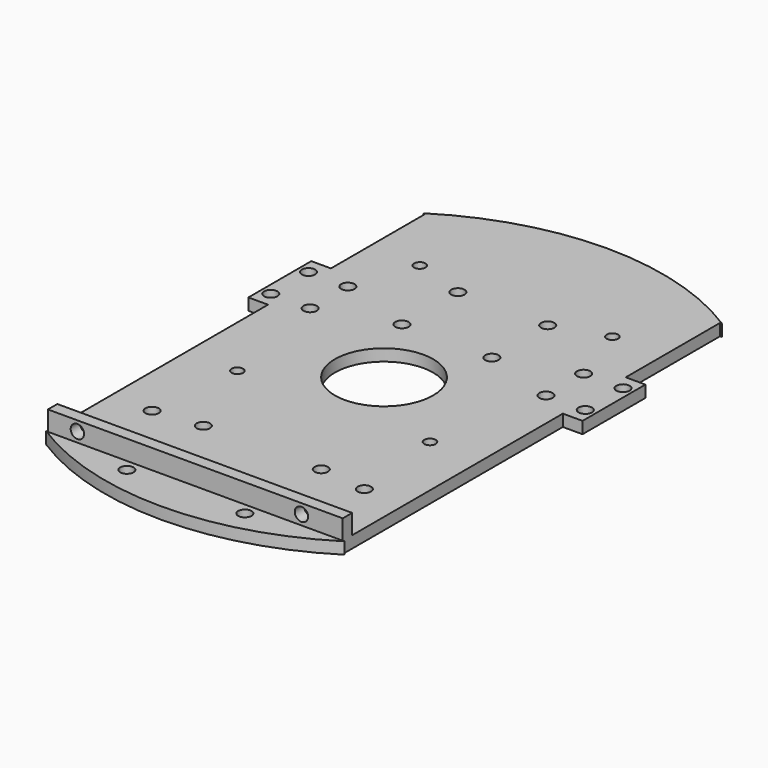
from build123d import *

# Parameters (mm, degrees)
SKETCH_R        = 71
PAD_DEPTH       = 3
SKETCH001_W     = 52.5
SKETCH001_H     = 120
POCKET_DEPTH    = 3.001
SKETCH002_W     = 55.43
SKETCH002_H     = 120
POCKET001_DEPTH = 3.001
SKETCH003_R     = 12.5
POCKET002_DEPTH = 3.001
SKETCH004_R     = 1.7
HOLE_DEPTH      = 3.001
SKETCH005_W     = 15
SKETCH005_H     = 20
PAD001_DEPTH    = 3
SKETCH006_W     = 15
SKETCH006_H     = 20
PAD002_DEPTH    = 3
SKETCH007_W     = 75
SKETCH007_H     = 3
PAD003_DEPTH    = 8
SKETCH008_R     = 1.7
HOLE001_DEPTH   = 8.001
SKETCH010_R     = 1.45
HOLE002_DEPTH   = 8.001
SKETCH011_R     = 1.7
HOLE003_DEPTH   = 8.001
SKETCH013_R     = 1.7
HOLE004_DEPTH   = 8.001
SKETCH014_R     = 1.7
HOLE005_DEPTH   = 71.001


with BuildPart() as part:
    # Sketch → Pad (new body)
    with BuildSketch(Plane.XY):
        Circle(SKETCH_R)
    extrude(amount=PAD_DEPTH)

    # Sketch001 → Pocket (cut, through all)
    with BuildSketch(Plane.XY):
        with Locations((63.75, 0)):
            Rectangle(SKETCH001_W, SKETCH001_H)
    extrude(amount=POCKET_DEPTH, mode=Mode.SUBTRACT)

    # Sketch002 → Pocket001 (cut, through all)
    with BuildSketch(Plane.XY):
        with Locations((-65.215, 0)):
            Rectangle(SKETCH002_W, SKETCH002_H)
    extrude(amount=POCKET001_DEPTH, mode=Mode.SUBTRACT)

    # Sketch003 → Pocket002 (cut, through all)
    with BuildSketch(Plane.XY):
        Circle(SKETCH003_R)
    extrude(amount=POCKET002_DEPTH, mode=Mode.SUBTRACT)

    # Sketch004 → Hole (cut, through all)
    with BuildSketch(Plane.XY):
        with Locations((-15, -38.7)):
            Circle(SKETCH004_R)
        with Locations((15, -38.7)):
            Circle(SKETCH004_R)
        with Locations((-15, -63)):
            Circle(SKETCH004_R)
        with Locations((15, -63)):
            Circle(SKETCH004_R)
    extrude(amount=HOLE_DEPTH, mode=Mode.SUBTRACT)

    # Sketch005 → Pad001 (join)
    with BuildSketch(Plane.XY):
        with Locations((35, 20)):
            Rectangle(SKETCH005_W, SKETCH005_H)
    extrude(amount=PAD001_DEPTH)

    # Sketch006 → Pad002 (join)
    with BuildSketch(Plane.XY):
        with Locations((-35, 20)):
            Rectangle(SKETCH006_W, SKETCH006_H)
    extrude(amount=PAD002_DEPTH)

    # Sketch007 → Pad003 (join)
    with BuildSketch(Plane.XY):
        with Locations((0, -58.5)):
            Rectangle(SKETCH007_W, SKETCH007_H)
    extrude(amount=PAD003_DEPTH)

    # Sketch008 → Hole001 (cut, through all)
    with BuildSketch(Plane.XY):
        with Locations((-27, -40)):
            Circle(SKETCH008_R)
        with Locations((27, -40)):
            Circle(SKETCH008_R)
    extrude(amount=HOLE001_DEPTH, mode=Mode.SUBTRACT)

    # Sketch010 → Hole002 (cut, through all)
    with BuildSketch(Plane.XY):
        with Locations((-24.5, -16)):
            Circle(SKETCH010_R)
        with Locations((24.5, -16)):
            Circle(SKETCH010_R)
        with Locations((24.5, 42)):
            Circle(SKETCH010_R)
        with Locations((-24.5, 42)):
            Circle(SKETCH010_R)
    extrude(amount=HOLE002_DEPTH, mode=Mode.SUBTRACT)

    # Sketch011 → Hole003 (cut, through all)
    with BuildSketch(Plane.XY):
        with Locations((-30, 26)):
            Circle(SKETCH011_R)
        with Locations((-40, 26)):
            Circle(SKETCH011_R)
        with Locations((-30, 14)):
            Circle(SKETCH011_R)
        with Locations((-40, 14)):
            Circle(SKETCH011_R)
        with Locations((30, 26)):
            Circle(SKETCH011_R)
        with Locations((40, 26)):
            Circle(SKETCH011_R)
        with Locations((30, 14)):
            Circle(SKETCH011_R)
        with Locations((40, 14)):
            Circle(SKETCH011_R)
    extrude(amount=HOLE003_DEPTH, mode=Mode.SUBTRACT)

    # Sketch013 → Hole004 (cut, through all)
    with BuildSketch(Plane.XY):
        with Locations((-11.43, 37.78)):
            Circle(SKETCH013_R)
        with Locations((11.43, 37.78)):
            Circle(SKETCH013_R)
        with Locations((-11.43, 20)):
            Circle(SKETCH013_R)
        with Locations((11.43, 20)):
            Circle(SKETCH013_R)
    extrude(amount=HOLE004_DEPTH, mode=Mode.SUBTRACT)

    # Sketch014 → Hole005 (cut, through all)
    with BuildSketch(Plane.XZ):
        with Locations((-30, 5.5)):
            Circle(SKETCH014_R)
        with Locations((27, 5.5)):
            Circle(SKETCH014_R)
    extrude(amount=HOLE005_DEPTH, mode=Mode.SUBTRACT)


solid = part.part
